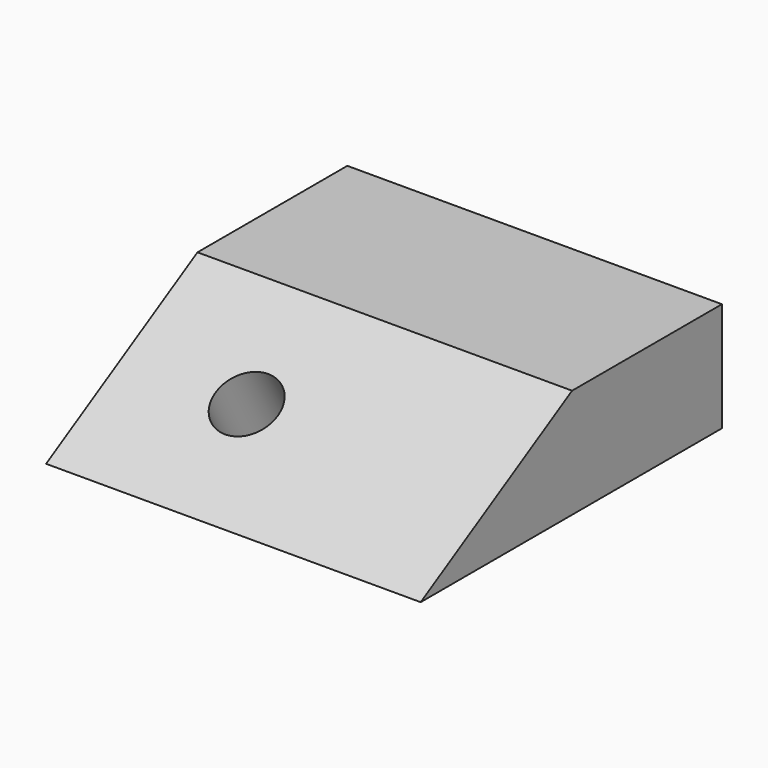
from build123d import *

# Parameters (mm, degrees)
F1_DEPTH = 152.4
F2_R     = 12.7
F3_DEPTH = 32.9965678842


with BuildPart() as f1:
    # F0 (on Right) → F1 (new body)
    with BuildSketch(Plane.YZ):
        Polygon((76.9896583964, 44.45), (0, 0), (153.1896583964, 0), (153.1896583964, 44.45), align=None)
    extrude(amount=F1_DEPTH)

    # F2 (on face) → F3 (cut, through all)
    with BuildSketch(Plane(origin=(0, 0, 0), x_dir=(1, 0, 0), z_dir=(0, -0.5, 0.8660254038))):
        with Locations((50.8, 44.45)):
            Circle(F2_R)
    extrude(amount=-F3_DEPTH, mode=Mode.SUBTRACT)


solid = f1.part
